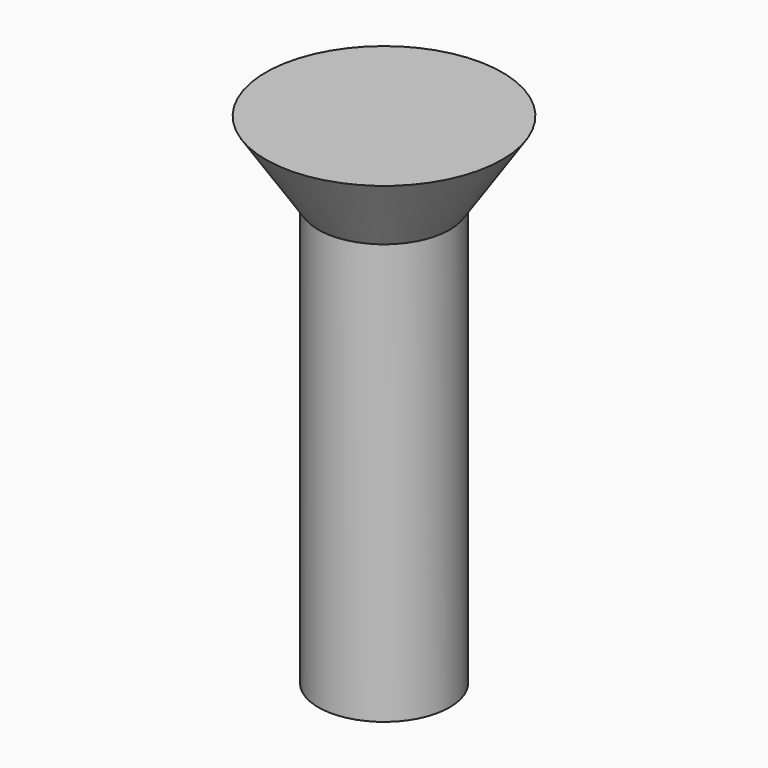
from build123d import *

# Parameters (mm, degrees)
CYLINDER011_R                   = 2.5
CYLINDER011_DEPTH               = 16
FUSION001018017_PLACEMENT_ANGLE = 180
CLONE024_PLACEMENT_ANGLE        = 180


with BuildPart() as cone003:
    # Cone003 → Cone003 (revolve)
    with BuildSketch(Plane(origin=(0, 0, -3), x_dir=(1, 0, 0), z_dir=(0, -1, 0))):
        Polygon((0, 0), (4.5, 0), (2.5, 3), (0, 3), align=None)
    revolve(axis=Axis((0, 0, -3), (0, 0, 1)))


with BuildPart() as obj1:
    # Cylinder011 → Cylinder011 (new body)
    with BuildSketch(Plane.XY):
        Circle(CYLINDER011_R)
    extrude(amount=CYLINDER011_DEPTH)

    # Fusion001018017: union Cone003
    add(cone003.part)


with BuildPart() as obj1_1:
    # Fusion001018017 placement: moved
    add(obj1.part.moved(Location((45, 15, 21))).rotate(Axis((45, 15, 21), (0, 1, 0)), FUSION001018017_PLACEMENT_ANGLE))


with BuildPart() as obj1_2:
    # Clone024 placement: moved
    add(obj1_1.part.moved(Location((90, 270, 0))).rotate(Axis((90, 270, 0), (0, 0, 1)), CLONE024_PLACEMENT_ANGLE))


with BuildPart() as obj1_3:
    # Clone032 placement: moved
    add(obj1_2.part.moved(Location((270, 0, 0))))


solid = obj1_3.part
